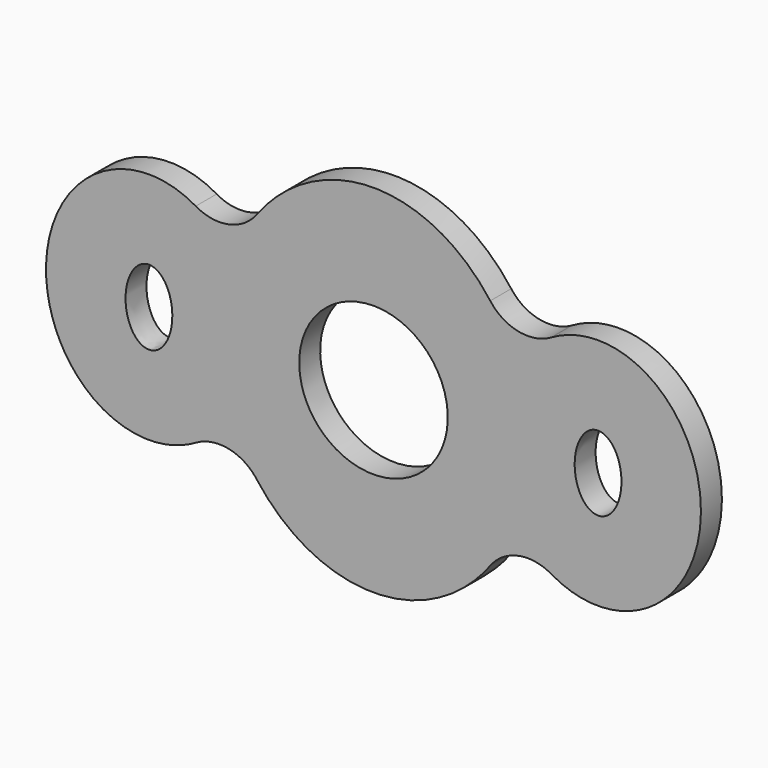
from build123d import *

# Parameters (mm, degrees)
F1_DEPTH = 2.8
F2_R     = 5


with BuildPart() as f1:
    # F0 (on Front) → F1 (new body)
    with BuildSketch(Plane.XZ):
        with BuildLine():
            add(Edge.make_bspline(
                [(15.1791602264, 7.4683202907), (10.9042729382, 19.05), (0, 19.05)],
                knots=[5.1152346644, 5.1152346644, 5.1152346644, 6.2831853072, 6.2831853072, 6.2831853072], degree=2, weights=[1, 0.834277475, 1]))
            add(Edge.make_bspline(
                [(0, 19.05), (-10.9042729382, 19.05), (-15.1791602264, 7.4683202907)],
                knots=[0, 0, 0, 1.1679506428, 1.1679506428, 1.1679506428], degree=2, weights=[1, 0.834277475, 1]))
            add(Edge.make_bspline(
                [(-15.1791602264, -7.4683202907), (-10.2824852162, 0), (-15.1791602264, 7.4683202907)],
                knots=[4.0720520932, 4.0720520932, 4.0720520932, 5.3527258676, 5.3527258676, 5.3527258676], degree=2, weights=[1, 0.8018945249, 1]))
            add(Edge.make_bspline(
                [(-15.1791602264, -7.4683202907), (0, -48.5922517878), (15.1791602264, -7.4683202907)],
                knots=[1.9736420108, 1.9736420108, 1.9736420108, 4.3095432964, 4.3095432964, 4.3095432964], degree=2, weights=[1, 0.3920378105, 1]))
            add(Edge.make_bspline(
                [(15.1791602264, 7.4683202907), (10.2824852162, 0), (15.1791602264, -7.4683202907)],
                knots=[0.9304594396, 0.9304594396, 0.9304594396, 2.211133214, 2.211133214, 2.211133214], degree=2, weights=[1, 0.8018945249, 1]))
        make_face()
        with BuildLine():
            add(Edge.make_bspline(
                [(0, 7.9375), (-13.7481532851, 7.9375), (-6.8740766425, -3.96875), (0, -15.875), (6.8740766425, -3.96875), (13.7481532851, 7.9375), (0, 7.9375)],
                knots=[0, 0, 0, 2.0943951024, 2.0943951024, 4.1887902048, 4.1887902048, 6.2831853072, 6.2831853072, 6.2831853072], degree=2, weights=[1, 0.5, 1, 0.5, 1, 0.5, 1]))
        make_face(mode=Mode.SUBTRACT)
        with BuildLine():
            add(Edge.make_bspline(
                [(-15.1791602264, -7.4683202907), (-10.2824852162, 0), (-15.1791602264, 7.4683202907)],
                knots=[4.0720520932, 4.0720520932, 4.0720520932, 5.3527258676, 5.3527258676, 5.3527258676], degree=2, weights=[1, 0.8018945249, 1]))
            add(Edge.make_bspline(
                [(-15.1791602264, 7.4683202907), (-17.9357748347, 0), (-15.1791602264, -7.4683202907)],
                knots=[1.1679506428, 1.1679506428, 1.1679506428, 1.9736420108, 1.9736420108, 1.9736420108], degree=2, weights=[1, 0.9199491046, 1]))
        make_face()
        with BuildLine():
            add(Edge.make_bspline(
                [(-15.1791602264, 7.4683202907), (-17.9357748347, 0), (-15.1791602264, -7.4683202907)],
                knots=[1.1679506428, 1.1679506428, 1.1679506428, 1.9736420108, 1.9736420108, 1.9736420108], degree=2, weights=[1, 0.9199491046, 1]))
            add(Edge.make_bspline(
                [(-15.1791602264, 7.4683202907), (-18.4782287361, 12.5), (-24, 12.5)],
                knots=[5.3527258676, 5.3527258676, 5.3527258676, 6.2831853072, 6.2831853072, 6.2831853072], degree=2, weights=[1, 0.8937185304, 1]))
            add(Edge.make_bspline(
                [(-24, 12.5), (-41.8298969495, 12.5), (-33.8309038347, -5.6078514765), (-25.83191072, -23.7157029531), (-15.1791602264, -7.4683202907)],
                knots=[0, 0, 0, 2.0360260466, 2.0360260466, 4.0720520932, 4.0720520932, 4.0720520932], degree=2, weights=[1, 0.5250580358, 1, 0.5250580358, 1]))
        make_face()
        with BuildLine():
            add(Edge.make_bspline(
                [(-24, 4), (-28.3301270189, 4), (-26.1650635095, -2), (-24, -8), (-21.8349364905, -2), (-19.6698729811, 4), (-24, 4)],
                knots=[0, 0, 0, 2.0943951024, 2.0943951024, 4.1887902048, 4.1887902048, 6.2831853072, 6.2831853072, 6.2831853072], degree=2, weights=[1, 0.5, 1, 0.5, 1, 0.5, 1]))
        make_face(mode=Mode.SUBTRACT)
        with BuildLine():
            add(Edge.make_bspline(
                [(24, 12.5), (18.4782287361, 12.5), (15.1791602264, 7.4683202907)],
                knots=[0, 0, 0, 0.9304594396, 0.9304594396, 0.9304594396], degree=2, weights=[1, 0.8937185304, 1]))
            add(Edge.make_bspline(
                [(15.1791602264, -7.4683202907), (17.9357748347, 0), (15.1791602264, 7.4683202907)],
                knots=[4.3095432964, 4.3095432964, 4.3095432964, 5.1152346644, 5.1152346644, 5.1152346644], degree=2, weights=[1, 0.9199491046, 1]))
            add(Edge.make_bspline(
                [(15.1791602264, -7.4683202907), (25.83191072, -23.7157029531), (33.8309038347, -5.6078514765), (41.8298969495, 12.5), (24, 12.5)],
                knots=[2.211133214, 2.211133214, 2.211133214, 4.2471592606, 4.2471592606, 6.2831853072, 6.2831853072, 6.2831853072], degree=2, weights=[1, 0.5250580358, 1, 0.5250580358, 1]))
        make_face()
        with BuildLine():
            add(Edge.make_bspline(
                [(24, -4), (28.3301270189, -4), (26.1650635095, 2), (24, 8), (21.8349364905, 2), (19.6698729811, -4), (24, -4)],
                knots=[0, 0, 0, 2.0943951024, 2.0943951024, 4.1887902048, 4.1887902048, 6.2831853072, 6.2831853072, 6.2831853072], degree=2, weights=[1, 0.5, 1, 0.5, 1, 0.5, 1]))
        make_face(mode=Mode.SUBTRACT)
        with BuildLine():
            add(Edge.make_bspline(
                [(15.1791602264, -7.4683202907), (17.9357748347, 0), (15.1791602264, 7.4683202907)],
                knots=[4.3095432964, 4.3095432964, 4.3095432964, 5.1152346644, 5.1152346644, 5.1152346644], degree=2, weights=[1, 0.9199491046, 1]))
            add(Edge.make_bspline(
                [(15.1791602264, 7.4683202907), (10.2824852162, 0), (15.1791602264, -7.4683202907)],
                knots=[0.9304594396, 0.9304594396, 0.9304594396, 2.211133214, 2.211133214, 2.211133214], degree=2, weights=[1, 0.8018945249, 1]))
        make_face()
    extrude(amount=F1_DEPTH)

    # F2
    f2_edges = [f1.edges().sort_by_distance(p)[0] for p in [
        (15.17916, -1.4, -7.46832),
        (-15.17916, -1.4, 7.46832),
        (-15.17916, -1.4, -7.46832),
        (15.17916, -1.4, 7.46832),
    ]]
    fillet(f2_edges, radius=F2_R)


solid = f1.part
